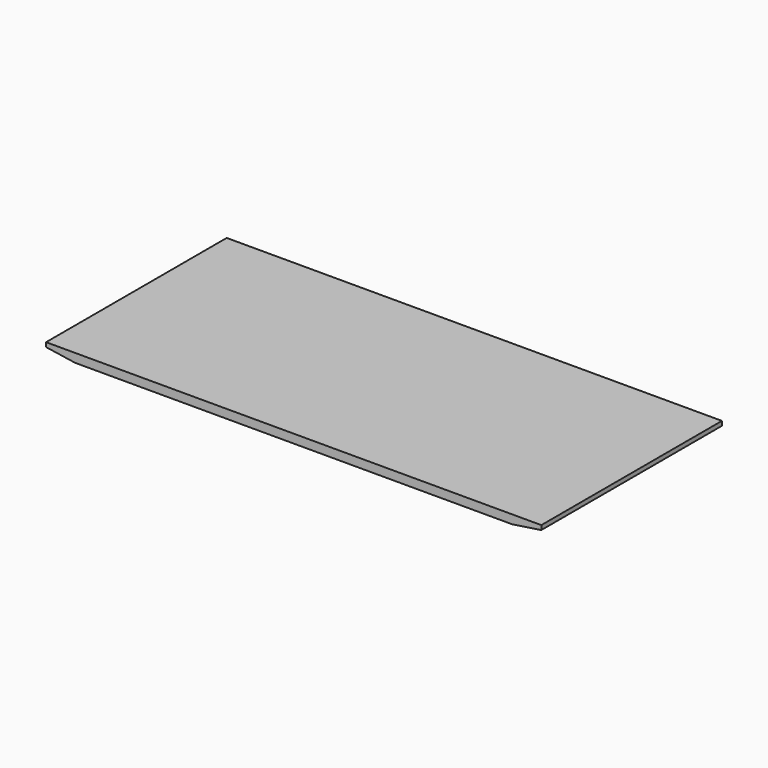
from build123d import *

# Parameters (mm, degrees)
F0_W     = 863.6
F0_H     = 393.7
F1_DEPTH = 15.24
F3_DEPTH = 393.701


with BuildPart() as f1:
    # F0 (on Top) → F1 (new body)
    with BuildSketch(Plane.XY):
        Rectangle(F0_W, F0_H)
    extrude(amount=F1_DEPTH)

    # F2 (on face) → F3 (cut, through all)
    with BuildSketch(Plane(origin=(0, 196.85, 0), x_dir=(-1, 0, 0), z_dir=(0, 1, 0))):
        Polygon((-381, 0), (-431.8, 7.62), (-431.8, 0), align=None)
        Polygon((431.8, 7.62), (381, 0), (431.8, 0), align=None)
    extrude(amount=-F3_DEPTH, mode=Mode.SUBTRACT)


solid = f1.part
